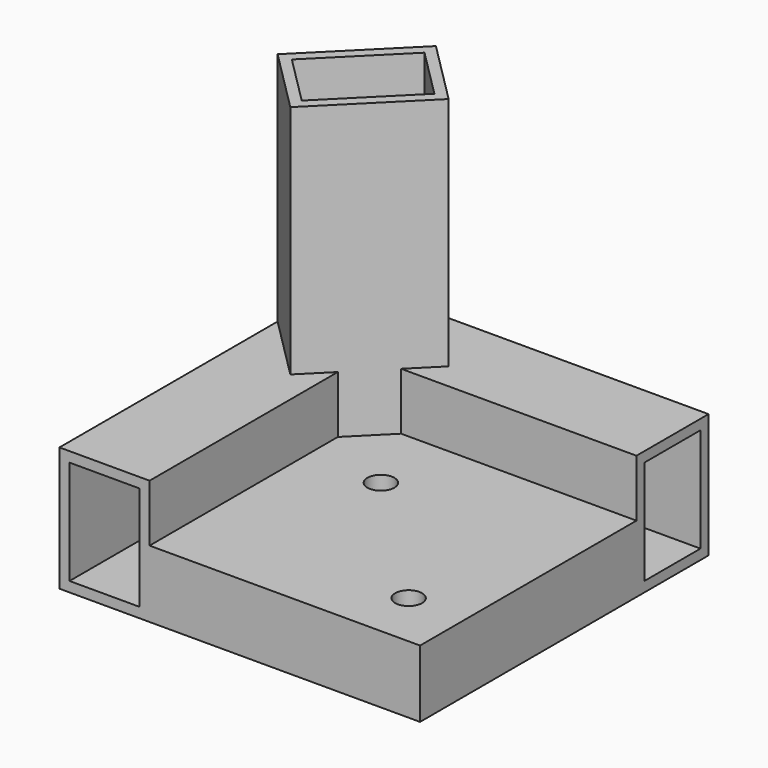
from build123d import *

# Parameters (mm, degrees)
PAD002_DEPTH    = 18.5
THICKNESS001_T  = -1.5
PAD003_DEPTH    = 35
POCKET001_DEPTH = 35
SKETCH006_R     = 2
PAD004_DEPTH    = 10


with BuildPart() as part:
    # Sketch003 → Pad002 (new body)
    with BuildSketch(Plane.XY):
        Polygon((-6.7, -6.381475), (-6.7, -46.931937), (6.7, -46.931937), (6.7, -11.931937), (11.931937, -6.7), (46.931937, -6.7), (46.931937, 6.7), (6.381475, 6.7), align=None)
    extrude(amount=PAD002_DEPTH)

    # Thickness001
    thickness001_openings = [part.faces().sort_by_distance(p)[0] for p in [
        (0, -46.931937, 9.25),
        (46.931937, 0, 9.25),
    ]]
    offset(amount=THICKNESS001_T, openings=thickness001_openings)

    # Sketch004 (on Face8 of Thickness001) → Pad003 (join)
    with BuildSketch(Plane.XY.offset(18.5)):
        Polygon((-6.7, -6.381475), (6.381475, 6.7), (15.856706, -2.775231), (2.775231, -15.856706), align=None)
    extrude(amount=PAD003_DEPTH)

    # Sketch005 (on Face22 of Pad003) → Pocket001 (cut)
    with BuildSketch(Plane.XY.offset(53.5)):
        Polygon((-4.58, -6.381475), (6.381475, 4.58), (13.736706, -2.775231), (2.775231, -13.736706), align=None)
    extrude(amount=-POCKET001_DEPTH, mode=Mode.SUBTRACT)

    # Sketch006 (on Face4 of Pocket001) → Pad004 (join)
    with BuildSketch(Plane(origin=(0, 0, 0), x_dir=(1, 0, 0), z_dir=(0, 0, -1))):
        Polygon((6.7, 46.931937), (6.7, 11.931937), (11.931937, 6.7), (46.931937, 6.7), (46.931937, 46.931937), align=None)
        with Locations((17.80125, 17.80125)):
            Circle(SKETCH006_R, mode=Mode.SUBTRACT)
        with Locations((38.446656, 38.446656)):
            Circle(SKETCH006_R, mode=Mode.SUBTRACT)
    extrude(amount=-PAD004_DEPTH)


solid = part.part
